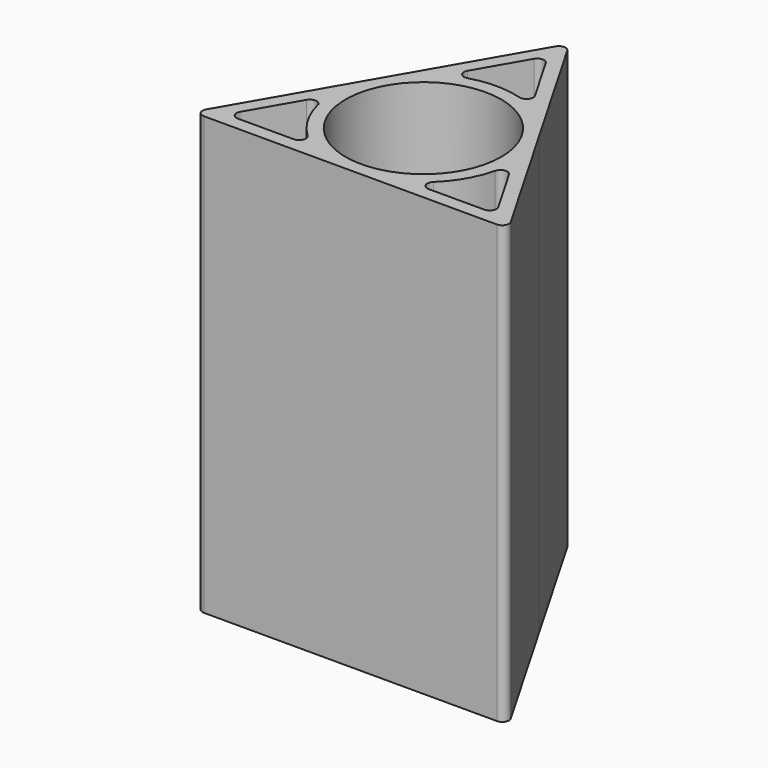
from build123d import *

# Parameters (mm, degrees)
F0_R     = 11.575
F1_DEPTH = 65


with BuildPart() as f1:
    # F0 (on Top) → F1 (new body)
    with BuildSketch(Plane.XY):
        with BuildLine():
            Line((11.756295, 6.7875), (0.866025, 25.65))
            ThreePointArc((0.866025, 25.65), (0, 26.15), (-0.866025, 25.65))
            Line((-0.866025, 25.65), (-22.646564, -12.075))
            ThreePointArc((-22.646564, -12.075), (-22.646564, -13.075), (-21.780539, -13.575))
            Line((-21.780539, -13.575), (21.780539, -13.575))
            ThreePointArc((21.780539, -13.575), (22.646564, -13.075), (22.646564, -12.075))
            Line((22.646564, -12.075), (11.756295, 6.7875))
        make_face()
        with BuildLine():
            ThreePointArc((-18.316437, -11.575), (-19.182463, -11.075), (-19.182463, -10.075))
            Line((-19.182463, -10.075), (-15.039222, -2.898696))
            ThreePointArc((-15.039222, -2.898696), (-14.029572, -2.409064), (-13.200764, -3.165509))
            ThreePointArc((-13.200764, -3.165509), (-11.756295, -6.7875), (-9.341794, -9.849443))
            ThreePointArc((-9.341794, -9.849443), (-9.101096, -10.945434), (-10.029955, -11.575))
            Line((-10.029955, -11.575), (-18.316437, -11.575))
        make_face(mode=Mode.SUBTRACT)
        Circle(F0_R, mode=Mode.SUBTRACT)
        with BuildLine():
            ThreePointArc((19.182463, -10.075), (19.182463, -11.075), (18.316437, -11.575))
            Line((18.316437, -11.575), (10.029955, -11.575))
            ThreePointArc((10.029955, -11.575), (9.101096, -10.945434), (9.341794, -9.849443))
            ThreePointArc((9.341794, -9.849443), (11.756295, -6.7875), (13.200764, -3.165509))
            ThreePointArc((13.200764, -3.165509), (14.029572, -2.409064), (15.039222, -2.898696))
            Line((15.039222, -2.898696), (19.182463, -10.075))
        make_face(mode=Mode.SUBTRACT)
        with BuildLine():
            ThreePointArc((-0.866025, 21.65), (0, 22.15), (0.866025, 21.65))
            Line((0.866025, 21.65), (5.009266, 14.473696))
            ThreePointArc((5.009266, 14.473696), (4.928476, 13.354498), (3.858971, 13.014952))
            ThreePointArc((3.858971, 13.014952), (0, 13.575), (-3.858971, 13.014952))
            ThreePointArc((-3.858971, 13.014952), (-4.928476, 13.354498), (-5.009266, 14.473696))
            Line((-5.009266, 14.473696), (-0.866025, 21.65))
        make_face(mode=Mode.SUBTRACT)
    extrude(amount=F1_DEPTH)


solid = f1.part
